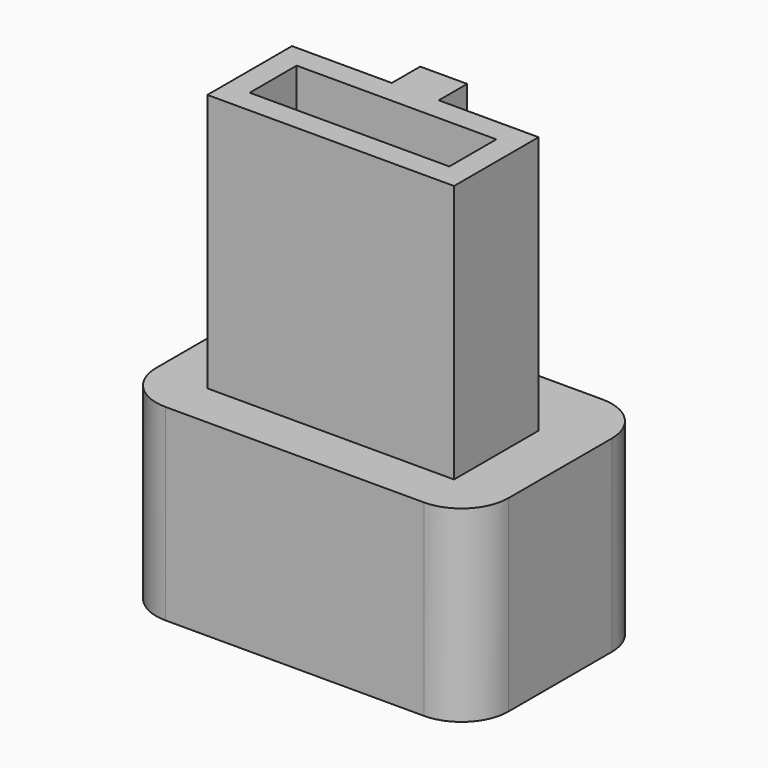
from build123d import *

# Parameters (mm, degrees)
F0_W     = 8.5
F0_H     = 2.5
F0_W_2   = 2
F0_H_2   = 1.512365222
F1_DEPTH = 19
F0_W_3   = 15
F0_H_3   = 9.5
F2_DEPTH = 8
F3_R     = 2
F4_SIZE2 = 1.4
F4_SIZE  = 3


with BuildPart() as f1:
    # F0 (on Top) → F1 (new body)
    with BuildSketch(Plane.XY):
        Polygon((-5.25, -2.25), (5.25, -2.25), (5.25, 2.25), (1, 2.25), (-1, 2.25), (-5.25, 2.25), align=None)
        Rectangle(F0_W, F0_H, mode=Mode.SUBTRACT)
        with Locations((0, 3.006182611)):
            Rectangle(F0_W_2, F0_H_2)
    extrude(amount=F1_DEPTH)

    # F0 (on Top) → F2 (join)
    with BuildSketch(Plane.XY):
        with Locations((0, 0.5852708127)):
            Rectangle(F0_W_3, F0_H_3)
        Polygon((5.25, 2.25), (5.25, -2.25), (-5.25, -2.25), (-5.25, 2.25), (-1, 2.25), (-1, 3.762365222), (1, 3.762365222), (1, 2.25), align=None, mode=Mode.SUBTRACT)
    extrude(amount=F2_DEPTH)

    # F3
    f3_edges = [f1.edges().sort_by_distance(p)[0] for p in [
        (-7.5, -4.164729, 4),
        (7.5, -4.164729, 4),
        (7.5, 5.335271, 4),
        (-7.5, 5.335271, 4),
    ]]
    fillet(f3_edges, radius=F3_R)

    # F4
    f4_edges = [f1.edges().sort_by_distance(p)[0] for p in [
        (0, 3.762365, 8),
    ]]
    f4_side = f1.faces().sort_by_distance((0, 3.762365, 13.5))[0]
    chamfer(f4_edges, length=F4_SIZE, length2=F4_SIZE2, reference=f4_side)


solid = f1.part
